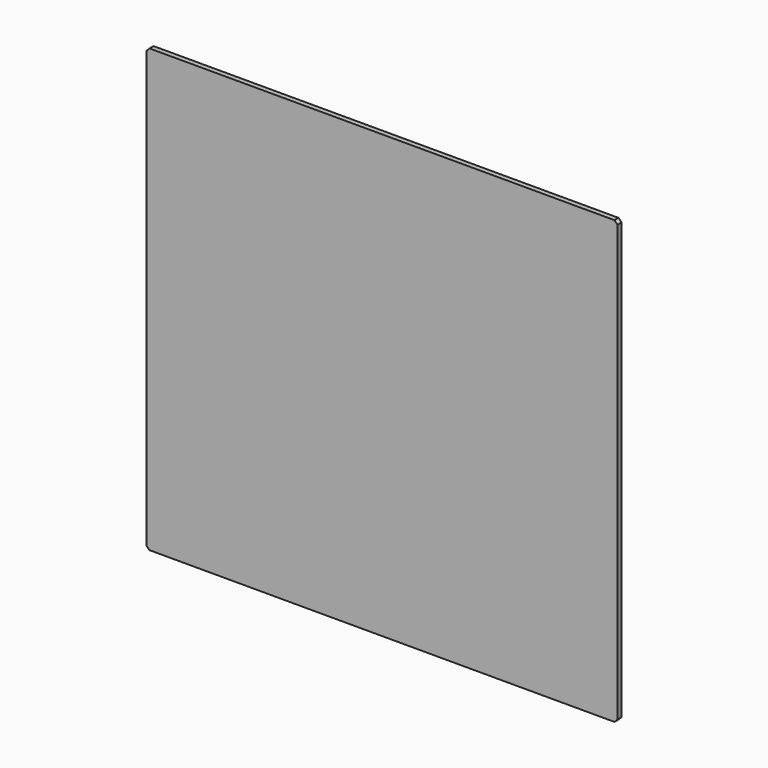
from build123d import *

# Parameters (mm, degrees)
F0_W     = 467
F0_H     = 438
F1_DEPTH = 5
F2_SIZE2 = 3
F2_SIZE  = 3


with BuildPart() as f1:
    # F0 (on Front) → F1 (new body)
    with BuildSketch(Plane.XZ):
        Rectangle(F0_W, F0_H)
    extrude(amount=F1_DEPTH)

    # F2
    f2_edges = [f1.edges().sort_by_distance(p)[0] for p in [
        (-233.5, -2.5, 219),
        (-233.5, -2.5, -219),
        (233.5, -2.5, -219),
        (233.5, -2.5, 219),
    ]]
    chamfer(f2_edges, length=F2_SIZE, length2=F2_SIZE2)


solid = f1.part
